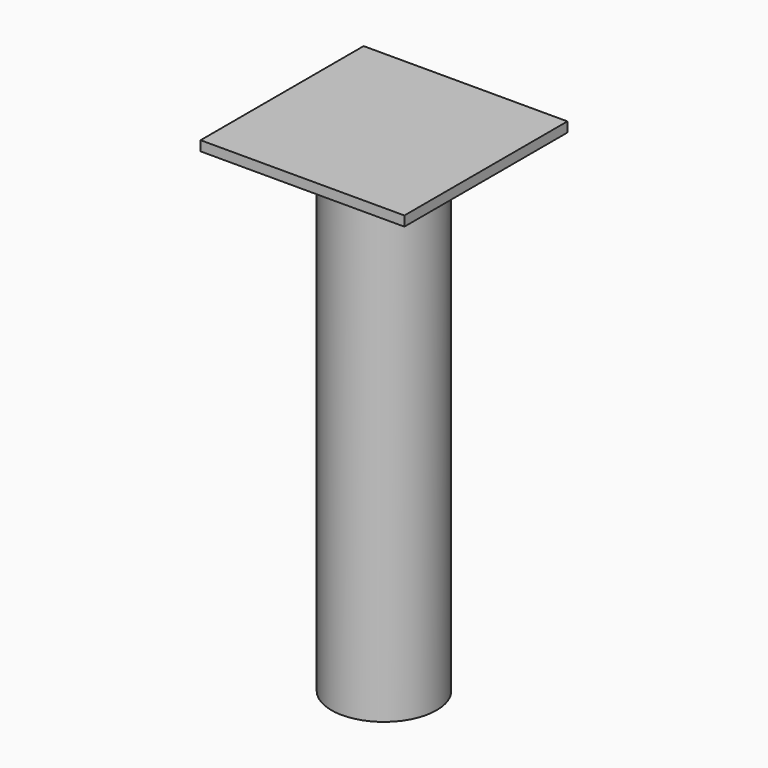
from build123d import *

# Parameters (mm, degrees)
F0_R     = 16
F1_DEPTH = 150
F2_W     = 62
F2_H     = 62
F3_DEPTH = 3


with BuildPart() as f1:
    # F0 (on Top) → F1 (new body)
    with BuildSketch(Plane.XY):
        Circle(F0_R)
    extrude(amount=-F1_DEPTH)

    # F2 (on Top) → F3 (join)
    with BuildSketch(Plane.XY):
        Rectangle(F2_W, F2_H)
    extrude(amount=-F3_DEPTH)


solid = f1.part
